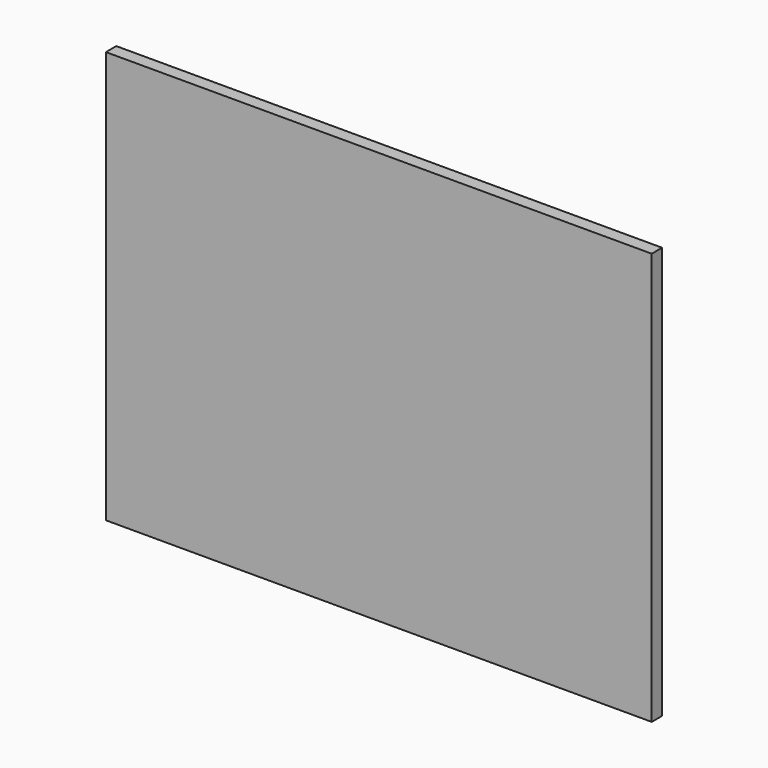
from build123d import *

# Parameters (mm, degrees)
F0_W     = 3733.8
F0_H     = 2819.4
F1_DEPTH = 12.7
F2_W     = 38.1
F2_H     = 2743.2
F3_DEPTH = 76.2
F4_W     = 76.2
F4_H     = 457.2
F5_DEPTH = 38.1


with BuildPart() as f1:
    # F0 (on Front) → F1 (new body)
    with BuildSketch(Plane.XZ):
        Rectangle(F0_W, F0_H)
    extrude(amount=F1_DEPTH)

    # F2 (on face) → F3 (join)
    with BuildSketch(Plane(origin=(0, 0, 0), x_dir=(-1, 0, 0), z_dir=(0, 1, 0))):
        Polygon((1866.9, 1409.7), (-1866.9, 1409.7), (-1866.9, 1371.6), (-1828.8, 1371.6), (-1752.6, 1371.6), (-1714.5, 1371.6), (-1181.1, 1371.6), (-1143, 1371.6), (-609.6, 1371.6), (-571.5, 1371.6), (31.75, 1371.6), (69.85, 1371.6), (571.5, 1371.6), (609.6, 1371.6), (1143, 1371.6), (1181.1, 1371.6), (1714.5, 1371.6), (1752.6, 1371.6), (1828.8, 1371.6), (1866.9, 1371.6), align=None)
        with Locations((-1847.85, 0)):
            Rectangle(F2_W, F2_H)
        with Locations((1847.85, 0)):
            Rectangle(F2_W, F2_H)
        Polygon((-1828.8, -1371.6), (-1866.9, -1371.6), (-1866.9, -1409.7), (1866.9, -1409.7), (1866.9, -1371.6), (1828.8, -1371.6), (1752.6, -1371.6), (1714.5, -1371.6), (1181.1, -1371.6), (1143, -1371.6), (609.6, -1371.6), (571.5, -1371.6), (69.85, -1371.6), (31.75, -1371.6), (-571.5, -1371.6), (-609.6, -1371.6), (-1143, -1371.6), (-1181.1, -1371.6), (-1714.5, -1371.6), (-1752.6, -1371.6), align=None)
        with Locations((-1733.55, 0)):
            Rectangle(F2_W, F2_H)
        with Locations((-1162.05, 0)):
            Rectangle(F2_W, F2_H)
        with Locations((-590.55, 0)):
            Rectangle(F2_W, F2_H)
        with Locations((50.8, 0)):
            Rectangle(F2_W, F2_H)
        with Locations((590.55, 0)):
            Rectangle(F2_W, F2_H)
        with Locations((1162.05, 0)):
            Rectangle(F2_W, F2_H)
        with Locations((1733.55, 0)):
            Rectangle(F2_W, F2_H)
    extrude(amount=F3_DEPTH)

    # F4 (on face) → F5 (join)
    with BuildSketch(Plane(origin=(0, 76.2, 0), x_dir=(-1, 0, 0), z_dir=(0, 1, 0))):
        with Locations((-1790.7, 939.8)):
            Rectangle(F4_W, F4_H)
        with Locations((-1790.7, -939.8)):
            Rectangle(F4_W, F4_H)
        with Locations((1790.7, 939.8)):
            Rectangle(F4_W, F4_H)
        with Locations((1790.7, -939.8)):
            Rectangle(F4_W, F4_H)
    extrude(amount=-F5_DEPTH)


solid = f1.part
